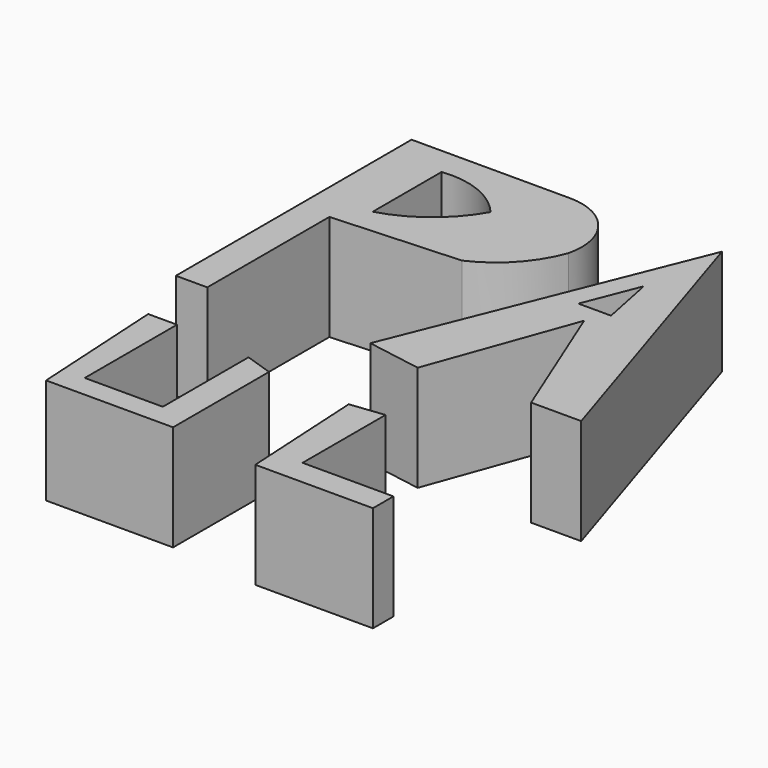
from build123d import *

# Parameters (mm, degrees)
F1_DEPTH = 25.4


with BuildPart() as f1:
    # F0 (on Top) → F1 (new body)
    with BuildSketch(Plane.XY):
        with BuildLine():
            Line((-33.150997, 45.739986), (-71.197711, 45.739986))
            Line((-71.197711, 45.739986), (-71.197711, -25.038093))
            Line((-71.197711, -25.038093), (-63.64432, -25.038093))
            Line((-63.64432, -25.038093), (-63.64432, 11.609843))
            Line((-63.64432, 11.609843), (-33.150997, 13.288374))
            ThreePointArc((-33.150997, 13.288374), (-24.799901, 19.317782), (-19.44299, 28.115401))
            ThreePointArc((-19.44299, 28.115401), (-21.987043, 40.279876), (-33.150997, 45.739986))
        make_face()
        with BuildLine():
            Line((-58.608726, 18.323969), (-58.608726, 39.025858))
            ThreePointArc((-58.608726, 39.025858), (-49.051491, 37.723275), (-41.263901, 32.031976))
            ThreePointArc((-41.263901, 32.031976), (-48.587436, 23.47123), (-58.608726, 18.323969))
        make_face(mode=Mode.SUBTRACT)
        Polygon((25.038097, -23.639318), (2.657677, 46.579245), (-25.597604, -23.639318), (-12.449108, -25.87736), (0, 8.532535), (13.008619, -23.639318), align=None)
        Polygon((-5.175474, 13.288374), (0, 26.436871), (2.657677, 13.288374), align=None, mode=Mode.SUBTRACT)
        Polygon((-58.608726, -68.120405), (-58.608726, -40.42463), (-65.533873, -40.42463), (-63.64432, -73.435754), (-33.150997, -73.435754), (-33.150997, -44.620961), (-39.865121, -42.382922), (-39.865121, -68.120405), align=None)
        Polygon((-5.175474, -69.519177), (-5.175474, -44.620961), (-13.278218, -45.537102), (-11.609843, -75.673796), (16.645437, -75.673796), (16.645437, -69.519177), align=None)
    extrude(amount=F1_DEPTH)


solid = f1.part
